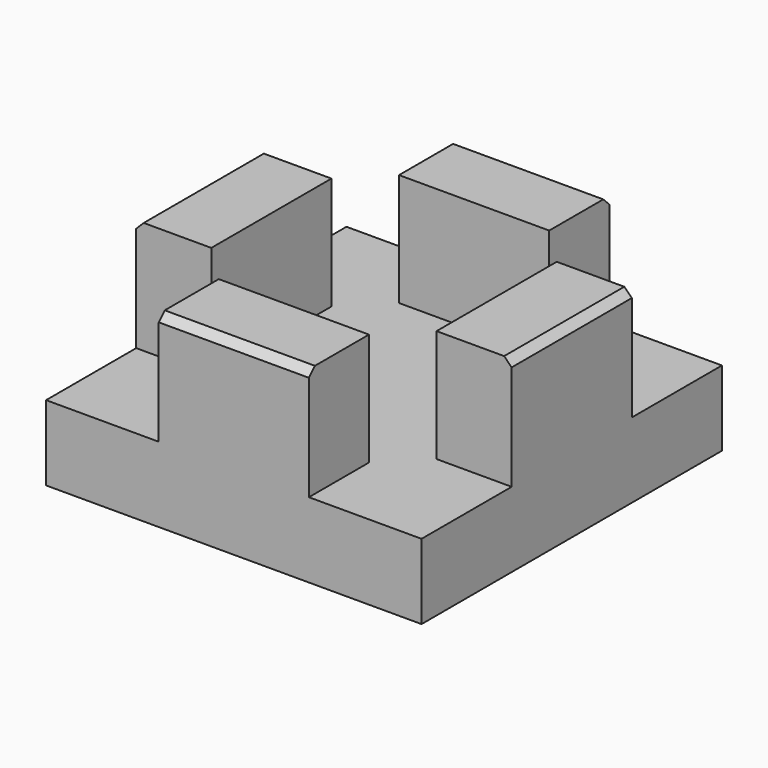
from build123d import *

# Parameters (mm, degrees)
F0_W     = 100
F0_H     = 100
F1_DEPTH = 50
F2_W     = 60
F2_H     = 60
F3_DEPTH = 30
F4_W     = 30
F4_H     = 30
F5_DEPTH = 30
F6_SIZE  = 2


with BuildPart() as f1:
    # F0 (on Top) → F1 (new body)
    with BuildSketch(Plane.XY):
        Rectangle(F0_W, F0_H)
    extrude(amount=F1_DEPTH)

    # F2 (on face) → F3 (cut)
    with BuildSketch(Plane.XY.offset(50)):
        Rectangle(F2_W, F2_H)
    extrude(amount=-F3_DEPTH, mode=Mode.SUBTRACT)

    # F4 (on face) → F5 (cut)
    with BuildSketch(Plane.XY.offset(50)):
        with Locations((-35, 35)):
            Rectangle(F4_W, F4_H)
        with Locations((-35, -35)):
            Rectangle(F4_W, F4_H)
        with Locations((35, -35)):
            Rectangle(F4_W, F4_H)
        with Locations((35, 35)):
            Rectangle(F4_W, F4_H)
        with Locations((-35, 35)):
            Rectangle(F4_W, F4_H)
        with Locations((35, -35)):
            Rectangle(F4_W, F4_H)
        with Locations((35, 35)):
            Rectangle(F4_W, F4_H)
        with Locations((-35, -35)):
            Rectangle(F4_W, F4_H)
    extrude(amount=-F5_DEPTH, mode=Mode.SUBTRACT)

    # F6
    f6_edges = [f1.edges().sort_by_distance(p)[0] for p in [
        (0, -50, 50),
        (50, 0, 50),
        (0, 50, 50),
        (-50, 0, 50),
    ]]
    chamfer(f6_edges, length=F6_SIZE)


solid = f1.part
